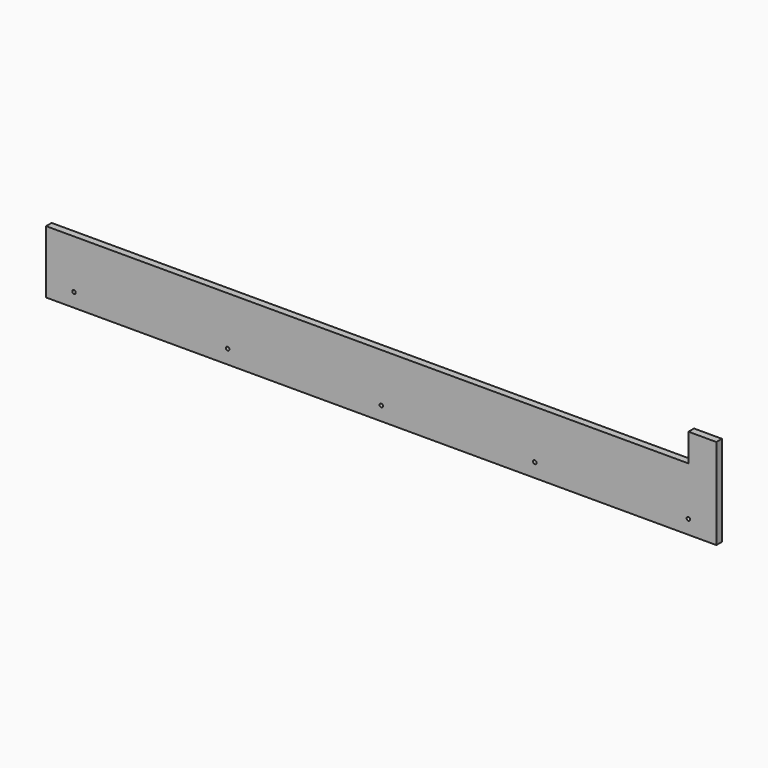
from build123d import *

# Parameters (mm, degrees)
F0_R     = 1.5875
F1_DEPTH = 6.35


with BuildPart() as f1:
    # F0 (on Front) → F1 (new body)
    with BuildSketch(Plane.XZ):
        Polygon((-304.8, -28.575), (304.8, -28.575), (304.8, 28.575), (304.8, 53.975), (279.4, 53.975), (279.4, 28.575), (-304.8, 28.575), align=None)
        with Locations((-279.4, -15.875)):
            Circle(F0_R, mode=Mode.SUBTRACT)
        with Locations((-139.7, -15.875)):
            Circle(F0_R, mode=Mode.SUBTRACT)
        with Locations((0, -15.875)):
            Circle(F0_R, mode=Mode.SUBTRACT)
        with Locations((139.7, -15.875)):
            Circle(F0_R, mode=Mode.SUBTRACT)
        with Locations((279.4, -15.875)):
            Circle(F0_R, mode=Mode.SUBTRACT)
    extrude(amount=F1_DEPTH)


solid = f1.part
